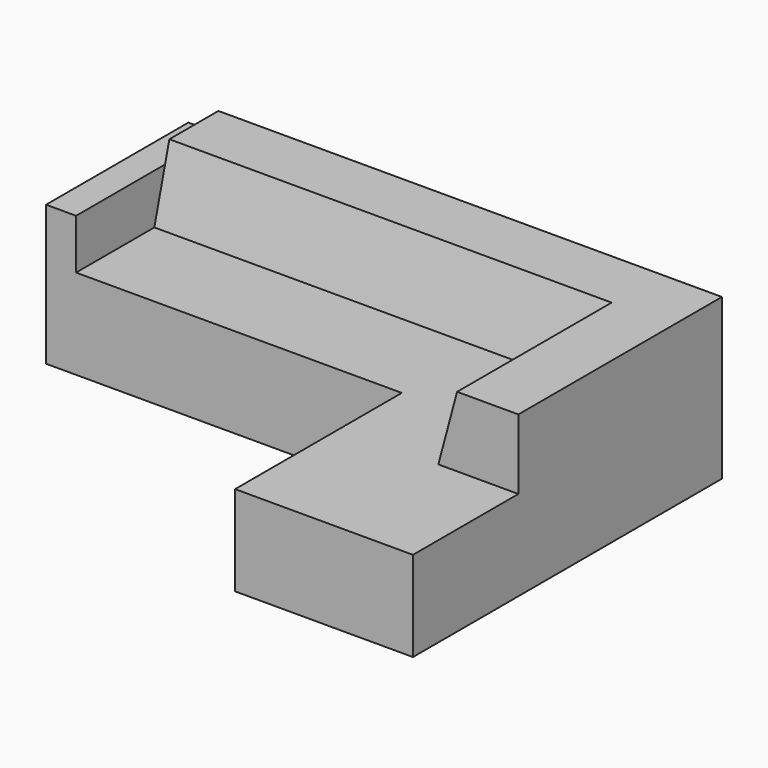
from build123d import *

# Parameters (mm, degrees)
F1_DEPTH  = 450
F2_W      = 889
F2_H      = 150
F2_W_2    = 150
F2_H_2    = 889
F3_DEPTH  = 250
F5_DEPTH  = 1780.4
F8_W      = 658.5683822632
F8_H      = 350
F9_DEPTH  = 889.001
F11_W     = 3085.2428972721
F11_H     = 1244.7776794434
F12_DEPTH = 2667.001


with BuildPart() as f1:
    # F0 (on Top) → F1 (new body)
    with BuildSketch(Plane.XY):
        Polygon((0, 1930.4), (0, 0), (889, 0), (889, 1041.4), (2667, 1041.4), (2667, 1930.4), align=None)
    extrude(amount=F1_DEPTH)

    # F2 (on face) → F3 (join)
    with BuildSketch(Plane.XY.offset(450)):
        with Locations((444.5, 75)):
            Rectangle(F2_W, F2_H)
        with Locations((2592, 1485.9)):
            Rectangle(F2_W_2, F2_H_2)
    extrude(amount=F3_DEPTH)

    # F4 (on face) → F5 (join, through all)
    with BuildSketch(Plane(origin=(0, 150, 0), x_dir=(-1, 0, 0), z_dir=(0, 1, 0))):
        Polygon((-400.05, 450), (0, 450), (0, 800), (-306.2677826491, 800), align=None)
    extrude(amount=F5_DEPTH)

    # F6 (on face) → F7 (join, up to the next surface of F1)
    with BuildSketch(Plane(origin=(2517, 0, 0), x_dir=(0, -1, 0), z_dir=(-1, 0, 0))):
        Polygon((-1930.4, 800), (-1930.4, 450), (-1530.35, 450), (-1624.1322173509, 800), align=None)
    extrude(until=Until.NEXT)

    # F8 (on face) → F9 (cut, through all)
    with BuildSketch(Plane.YZ.offset(889)):
        with Locations((329.2841911316, 625)):
            Rectangle(F8_W, F8_H)
    extrude(amount=-F9_DEPTH, mode=Mode.SUBTRACT)

    # F10: F1 across plane


with BuildPart() as f1_1:
    add(f1.part)
    add(f1.part.mirror(Plane.YZ))

    # F11 (on Right) → F12 (cut, through all)
    with BuildSketch(Plane.YZ):
        with Locations((1233.0443114042, 330.7127356529)):
            Rectangle(F11_W, F11_H)
    extrude(amount=F12_DEPTH, mode=Mode.SUBTRACT)


solid = f1_1.part
